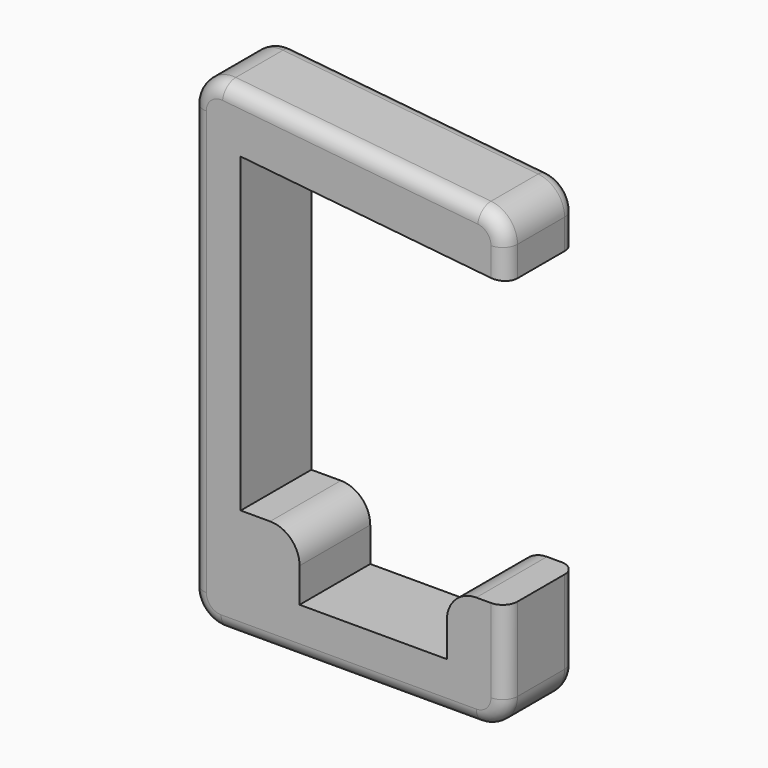
from build123d import *

# Parameters (mm, degrees)
F1_DEPTH = 9
F2_R     = 1.5


with BuildPart() as f1:
    # F0 (on Front) → F1 (new body)
    with BuildSketch(Plane.XZ):
        with BuildLine():
            Line((-40.040002, 31.75), (-13.040002, 29))
            Line((-13.040002, 29), (-13.040002, 32.051852))
            ThreePointArc((-13.040002, 32.051852), (-13.8138, 34.062828), (-15.736019, 35.036411))
            Line((-15.736019, 35.036411), (-41.736019, 37.684559))
            ThreePointArc((-41.736019, 37.684559), (-44.050978, 36.926202), (-45.040002, 34.7))
            Line((-45.040002, 34.7), (-45.040002, -8.5))
            ThreePointArc((-45.040002, -8.5), (-44.161322, -10.62132), (-42.040002, -11.5))
            Line((-42.040002, -11.5), (-16.040002, -11.5))
            ThreePointArc((-16.040002, -11.5), (-13.918682, -10.62132), (-13.040002, -8.5))
            Line((-13.040002, -8.5), (-13.040002, 0))
            Line((-13.040002, 0), (-16.040002, 0))
            ThreePointArc((-16.040002, 0), (-18.161322, -0.87868), (-19.040002, -3))
            Line((-19.040002, -3), (-19.040002, -6.5))
            Line((-19.040002, -6.5), (-34.040002, -6.5))
            Line((-34.040002, -6.5), (-34.040002, -3))
            ThreePointArc((-34.040002, -3), (-34.918682, -0.87868), (-37.040002, 0))
            Line((-37.040002, 0), (-40.040002, 0))
            Line((-40.040002, 0), (-40.040002, 31.75))
        make_face()
    extrude(amount=F1_DEPTH)

    # F2
    f2_edges = [f1.edges().sort_by_distance(p)[0] for p in [
        (-29.040002, -9, -11.5),
        (-45.040002, 0, 13.1),
    ]]
    fillet(f2_edges, radius=F2_R)


solid = f1.part
